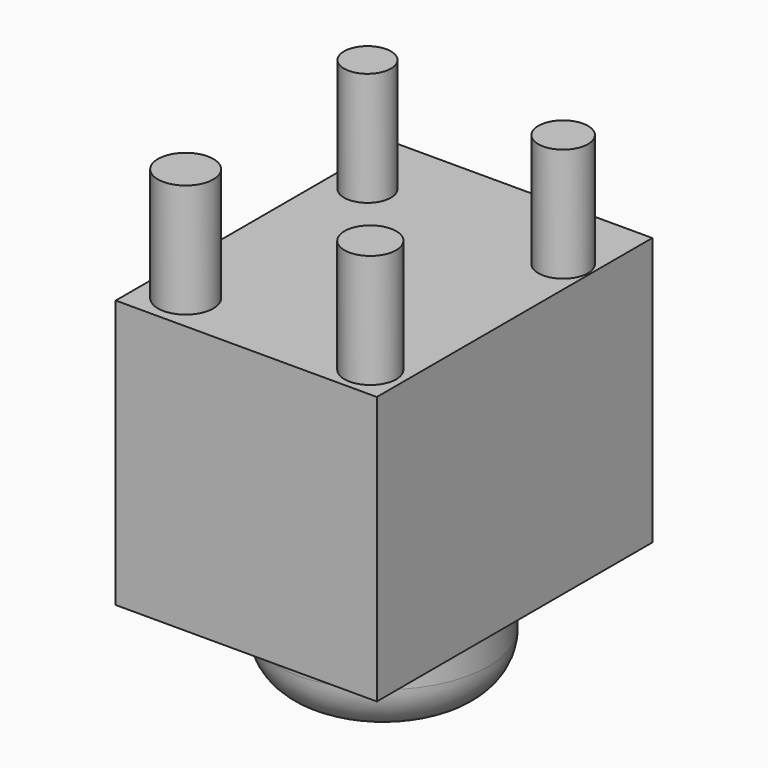
from build123d import *

# Parameters (mm, degrees)
F0_W     = 1167.4337387085
F0_H     = 1198.4824165702
F1_DEPTH = 1539.24
F3_R     = 123.9144502876
F3_R_2   = 110.9033314698
F3_R_3   = 115.6432590045
F2_R     = 104.8542871517
F4_DEPTH = 508
F5_W     = 410.7590019703
F5_H     = 410.758972168
F6_DEPTH = 294.64
F7_R     = 469.8318495328
F8_DEPTH = 386.08
F9_R     = 208.4914832465


with BuildPart() as f1:
    # F0 (on Front) → F1 (new body)
    with BuildSketch(Plane.XZ):
        with Locations((71.7308521271, -678.5182245076)):
            Rectangle(F0_W, F0_H)
    extrude(amount=F1_DEPTH)

    # F3 (on face) + F2 (on face) → F4 (join)
    with BuildSketch(Plane.XY.offset(-79.2770162225)):
        with Locations((-332.1154117584, -1373.1929063797)):
            Circle(F3_R)
        with Locations((535.5177521706, -348.2672572136)):
            Circle(F3_R_2)
        with Locations((508.9682340622, -1392.5344944)):
            Circle(F3_R_3)
    with BuildSketch(Plane.XY.offset(-79.2770162225)):
        with Locations((-352.2318005562, -331.8405747414)):
            Circle(F2_R)
    extrude(amount=F4_DEPTH)

    # F5 (on face) → F6 (join)
    with BuildSketch(Plane(origin=(0, 0, 0), x_dir=(-1, 0, 0), z_dir=(0, 1, 0))):
        with Locations((-84.9629417062, -709.4834446907)):
            Rectangle(F5_W, F5_H)
    extrude(amount=F6_DEPTH)

    # F7 (on face) → F8 (join)
    with BuildSketch(Plane(origin=(0, 0, -1277.7594327927), x_dir=(1, 0, 0), z_dir=(0, 0, -1))):
        with Locations((110.9014376998, 823.1565952301)):
            Circle(F7_R)
    extrude(amount=F8_DEPTH)

    # F9
    f9_edges = [f1.edges().sort_by_distance(p)[0] for p in [
        (-358.930412, -823.156595, -1663.839433),
    ]]
    fillet(f9_edges, radius=F9_R)


solid = f1.part
